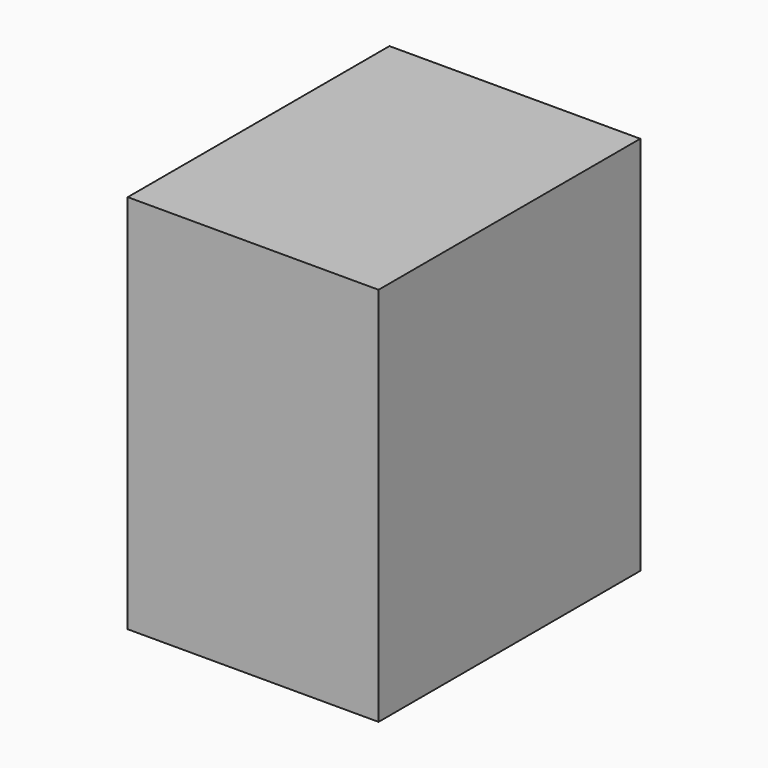
from build123d import *

# Parameters (mm, degrees)
SKETCH_W  = 782.5
SKETCH_H  = 910
PAD_DEPTH = 600


with BuildPart() as part:
    # Sketch → Pad (new body)
    with BuildSketch(Plane.YZ):
        with Locations((-391.25, 455)):
            Rectangle(SKETCH_W, SKETCH_H)
    extrude(amount=PAD_DEPTH)


solid = part.part
